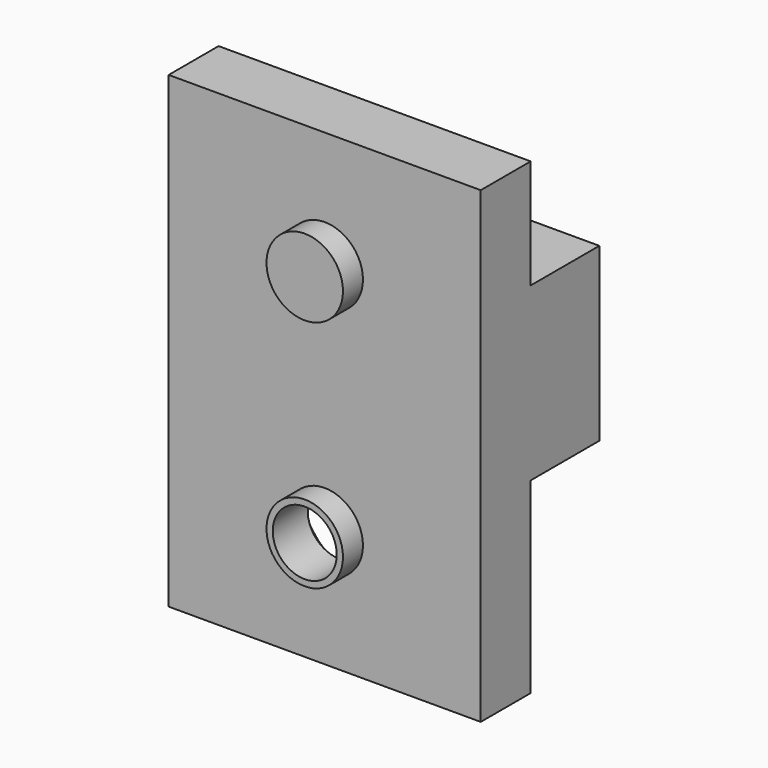
from build123d import *

# Parameters (mm, degrees)
F0_R      = 3.1115
F1_DEPTH  = 2.032
F2_W      = 25.4
F2_H      = 38.1
F3_DEPTH  = 5.08
F4_R      = 2.6035
F5_DEPTH  = 7.112
F6_R      = 6.223
F7_DEPTH  = 3.556
F9_DEPTH  = 19.05
F10_W     = 6.985
F10_H     = 8.89
F10_H_2   = 15.24
F11_DEPTH = 127


with BuildPart() as f1:
    # F0 (on Front) → F1 (new body)
    with BuildSketch(Plane.XZ):
        with Locations((0, -9.525)):
            Circle(F0_R)
        with Locations((0, 9.525)):
            Circle(F0_R)
    extrude(amount=F1_DEPTH)

    # F2 (on Front) → F3 (join)
    with BuildSketch(Plane.XZ):
        Rectangle(F2_W, F2_H)
    extrude(amount=-F3_DEPTH)

    # F4 (on face) → F5 (cut, through all)
    with BuildSketch(Plane.XZ.offset(2.032)):
        with Locations((0, -9.525)):
            Circle(F4_R)
    extrude(amount=-F5_DEPTH, mode=Mode.SUBTRACT)

    # F6 (on face) → F7 (cut)
    with BuildSketch(Plane(origin=(0, 5.08, 0), x_dir=(-1, 0, 0), z_dir=(0, 1, 0))):
        with Locations((0, -9.525)):
            Circle(F6_R)
    extrude(amount=-F7_DEPTH, mode=Mode.SUBTRACT)

    # F8 (on Top) → F9 (join, symmetric)
    with BuildSketch(Plane.XY):
        Polygon((7.62, 5.08), (12.7, 5.08), (12.7, 12.065), (-12.7, 12.065), (-12.7, 5.08), (-7.62, 5.08), (-7.62, 10.16), (7.62, 10.16), align=None)
    extrude(amount=F9_DEPTH, both=True)

    # F10 (on Right) → F11 (cut, symmetric)
    with BuildSketch(Plane.YZ):
        with Locations((8.5725, 14.605)):
            Rectangle(F10_W, F10_H)
        with Locations((8.5725, -11.43)):
            Rectangle(F10_W, F10_H_2)
    extrude(amount=F11_DEPTH, both=True, mode=Mode.SUBTRACT)


solid = f1.part
